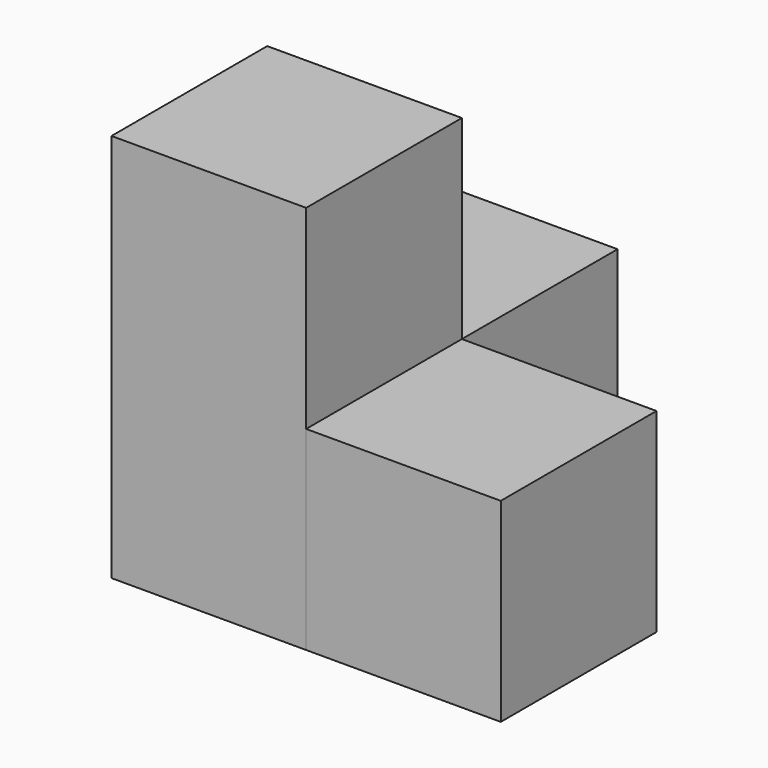
from build123d import *

# Parameters (mm, degrees)
BOX_W        = 10
BOX_H        = 10
BOX_DEPTH    = 20
BOX001_W     = 10
BOX001_H     = 10
BOX001_DEPTH = 10
BOX002_W     = 10
BOX002_H     = 10
BOX002_DEPTH = 10


with BuildPart() as obj1:
    # Box → Box (new body)
    with BuildSketch(Plane.XY):
        with Locations((5, 5)):
            Rectangle(BOX_W, BOX_H)
    extrude(amount=BOX_DEPTH)


with BuildPart() as obj2:
    # Box001 → Box001 (new body)
    with BuildSketch(Plane(origin=(0, 10, 0), x_dir=(1, 0, 0), z_dir=(0, 0, 1))):
        with Locations((5, 5)):
            Rectangle(BOX001_W, BOX001_H)
    extrude(amount=BOX001_DEPTH)


with BuildPart() as obj3:
    # Box002 → Box002 (new body)
    with BuildSketch(Plane(origin=(10, 0, 0), x_dir=(1, 0, 0), z_dir=(0, 0, 1))):
        with Locations((5, 5)):
            Rectangle(BOX002_W, BOX002_H)
    extrude(amount=BOX002_DEPTH)


solid = Compound([obj1.part, obj2.part, obj3.part])
